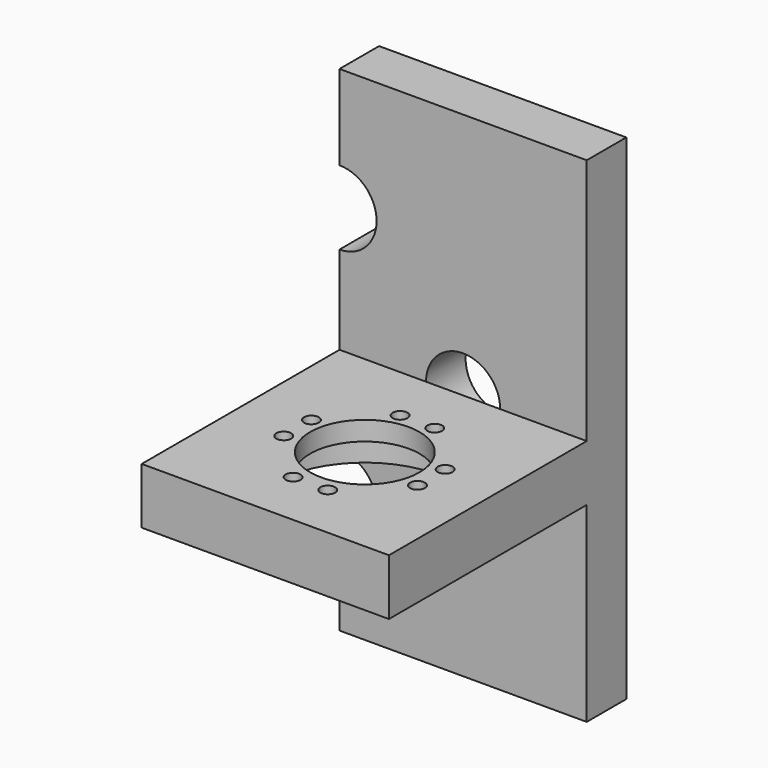
from build123d import *

# Parameters (mm, degrees)
F0_W      = 10
F0_H      = 20
F1_DEPTH  = 2
F2_R      = 1.5
F3_DEPTH  = 25.4
F4_W      = 10
F4_H      = 2.271716
F5_DEPTH  = 10
F6_R      = 1.5
F7_DEPTH  = 2
F8_R      = 3.65
F9_DEPTH  = 1.5
F10_R     = 2.211105
F11_DEPTH = 1
F12_R     = 0.3
F13_DEPTH = 1


with BuildPart() as f1:
    # F0 (on Front) → F1 (new body)
    with BuildSketch(Plane.XZ):
        Rectangle(F0_W, F0_H)
    extrude(amount=F1_DEPTH)

    # F2 (on face) → F3 (cut)
    with BuildSketch(Plane.XZ.offset(2)):
        with Locations((-5, 5.06894)):
            Circle(F2_R)
        with Locations((-5, -5.06894)):
            Circle(F2_R)
    extrude(amount=-F3_DEPTH, mode=Mode.SUBTRACT)

    # F4 (on face) → F5 (join)
    with BuildSketch(Plane.XZ.offset(2)):
        with Locations((0, -1.135858)):
            Rectangle(F4_W, F4_H)
    extrude(amount=F5_DEPTH)

    # F6 (on face) → F7 (cut)
    with BuildSketch(Plane(origin=(0, 0, 0), x_dir=(-1, 0, 0), z_dir=(0, 1, 0))):
        Circle(F6_R)
    extrude(amount=-F7_DEPTH, mode=Mode.SUBTRACT)

    # F8 (on face) → F9 (cut)
    with BuildSketch(Plane(origin=(0, 0, -2.271716), x_dir=(1, 0, 0), z_dir=(0, 0, -1))):
        with Locations((0, 6.969983)):
            Circle(F8_R)
    extrude(amount=-F9_DEPTH, mode=Mode.SUBTRACT)

    # F10 (on face) → F11 (cut)
    with BuildSketch(Plane(origin=(0, 0, -0.771716), x_dir=(1, 0, 0), z_dir=(0, 0, -1))):
        with Locations((0, 6.969983)):
            Circle(F10_R)
    extrude(amount=-F11_DEPTH, mode=Mode.SUBTRACT)

    # F12 (on face) → F13 (cut)
    with BuildSketch(Plane(origin=(0, 0, -0.771716), x_dir=(1, 0, 0), z_dir=(0, 0, -1))):
        with Locations((0.7, 4.309839)):
            Circle(F12_R)
        with Locations((-0.7, 4.309839)):
            Circle(F12_R)
        with Locations((0.7, 9.71972)):
            Circle(F12_R)
        with Locations((-0.7, 9.71972)):
            Circle(F12_R)
        with Locations((-2.693097, 6.302936)):
            Circle(F12_R)
        with Locations((-2.693097, 7.702936)):
            Circle(F12_R)
        with Locations((2.716784, 6.302936)):
            Circle(F12_R)
        with Locations((2.716784, 7.702936)):
            Circle(F12_R)
    extrude(amount=-F13_DEPTH, mode=Mode.SUBTRACT)


solid = f1.part
